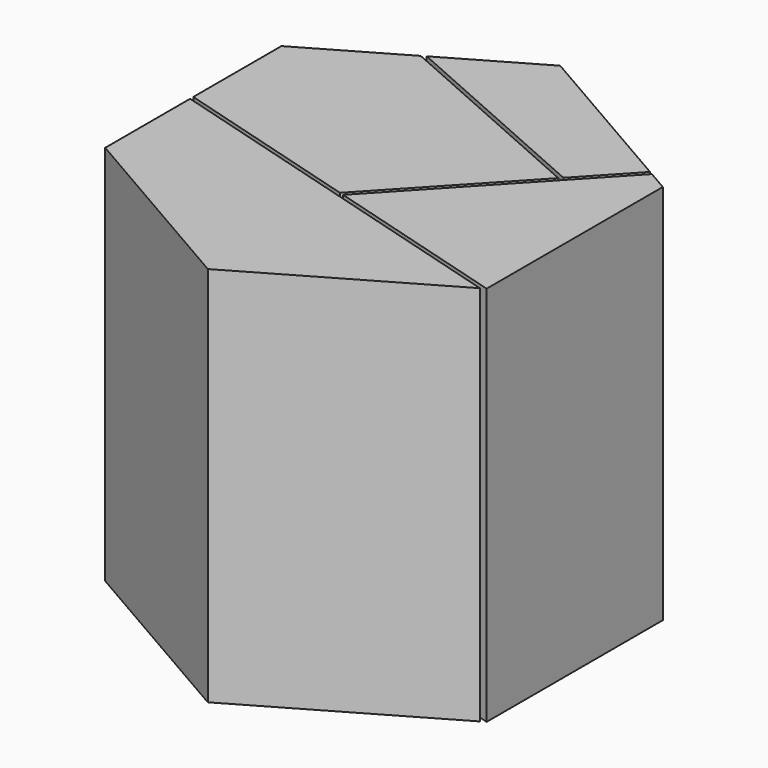
from build123d import *

# Parameters (mm, degrees)
F1_DEPTH = 100
F3_DEPTH = 110.7


with BuildPart() as f1:
    # F0 (on Top) → F1 (new body)
    with BuildSketch(Plane.XY):
        Polygon((-50, 28.867513), (-50, -28.867513), (0, -57.735027), (50, -28.867513), (50, 28.867513), (0, 57.735027), align=None)
    extrude(amount=F1_DEPTH)

    # F2 (on face) → F3 (cut)
    with BuildSketch(Plane.XY.offset(100)):
        Polygon((0, -14.433757), (-50, 0), (-50.27735, -0.960769), (55.484632, -31.491623), (50, -28.867513), (1.077793, -14.744889), align=None)
        Polygon((30.835972, 18.576506), (0, -14.433757), (1.077793, -14.744889), (44.684394, 31.93648), (44.684394, 33.401401), (31.558657, 19.350149), align=None)
        Polygon((-25, 43.30127), (30.835972, 18.576506), (31.558657, 19.350149), (-34.997456, 48.821905), align=None)
    extrude(amount=-F3_DEPTH, mode=Mode.SUBTRACT)


solid = f1.part
